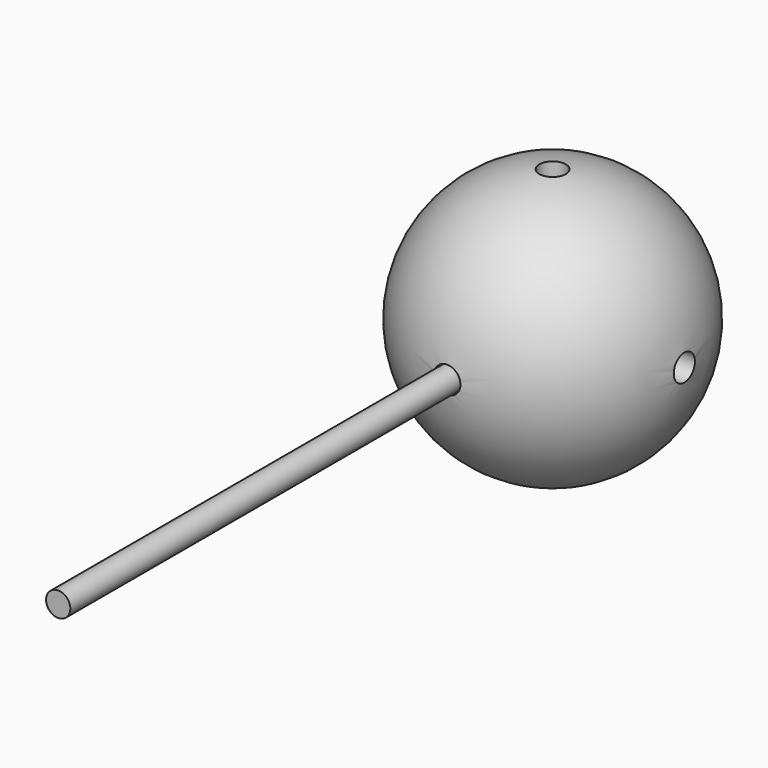
from build123d import *

# Parameters (mm, degrees)
F6_R      = 3
F7_DEPTH  = 12
F9_R      = 3
F10_DEPTH = 12
F12_R     = 3
F13_DEPTH = 12
F14_R     = 2.75
F15_DEPTH = 122


with BuildPart() as f4:
    # F3 (on Front) → F4 (revolve)
    with BuildSketch(Plane.XZ):
        with BuildLine():
            ThreePointArc((0, 30), (-30, 0), (0, -30))
            Line((0, -30), (0, 30))
        make_face()
    revolve(axis=Axis((0, 0, 0), (0, 0, -1)))

    # F6 (on offset) → F7 (cut)
    with BuildSketch(Plane.XZ.offset(30)):
        Circle(F6_R)
    extrude(amount=-F7_DEPTH, mode=Mode.SUBTRACT)

    # F9 (on offset) → F10 (cut)
    with BuildSketch(Plane.YZ.offset(30)):
        Circle(F9_R)
    extrude(amount=-F10_DEPTH, mode=Mode.SUBTRACT)

    # F12 (on offset) → F13 (cut)
    with BuildSketch(Plane.XY.offset(30)):
        Circle(F12_R)
    extrude(amount=-F13_DEPTH, mode=Mode.SUBTRACT)


with BuildPart() as f15:
    # F14 (on face) → F15 (new body)
    with BuildSketch(Plane.XZ.offset(18)):
        Circle(F14_R)
    extrude(amount=F15_DEPTH)


solid = Compound([f4.part, f15.part])
